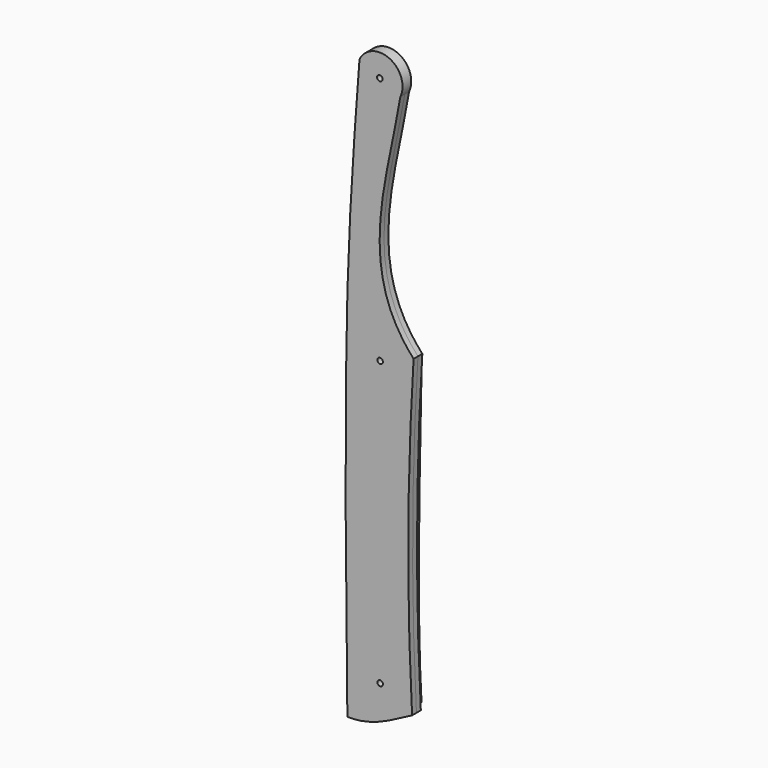
from build123d import *

# Parameters (mm, degrees)
F0_R     = 0.79375
F1_DEPTH = 1.5875
F3_DEPTH = 3.175
F4_R     = 0.79375
F5_DEPTH = 12.7


with BuildPart() as f1:
    # F0 (on Front) → F1 (new body, symmetric)
    with BuildSketch(Plane.XZ):
        with BuildLine():
            add(Edge.make_bspline(
                [(-34.3502052128, -116.479113698), (-34.7983030784, -77.7177502952), (-35.5826450176, -9.87060067), (-32.2482955411, 34.1522766481), (-30.8188740164, 53.0246980488)],
                knots=[0, 0, 0, 0, 0.5713042275, 1, 1, 1, 1], degree=3))
            add(Edge.make_bspline(
                [(-15.5250038952, -109.9904626608), (-22.6352680475, -113.8694807887), (-28.0549824238, -116.7387440801), (-34.3502052128, -116.479113698)],
                knots=[0, 0, 0, 0, 19.9120766605, 19.9120766605, 19.9120766605, 19.9120766605], degree=3))
            add(Edge.make_bspline(
                [(-15.5250038952, -109.9904626608), (-17.3721220344, -75.9345591068), (-16.7300663888, -45.1156832278), (-15.0884054601, -18.5649804771)],
                knots=[0, 0, 0, 0, 91.4265246562, 91.4265246562, 91.4265246562, 91.4265246562], degree=3))
            add(Edge.make_bspline(
                [(-18.9407654107, 47.2461543977), (-22.7931253612, 24.1320021451), (-32.1029946208, 0), (-15.0884054601, -18.5649804771)],
                knots=[0, 0, 0, 0, 65.9237904758, 65.9237904758, 65.9237904758, 65.9237904758], degree=3))
            ThreePointArc((-18.9407654107, 47.2461543977), (-22.0177139024, 56.0186393162), (-30.8188740164, 53.0246980488))
        make_face()
        with Locations((-24.9071146526, 50.0793200016)):
            Circle(F0_R, mode=Mode.SUBTRACT)
    extrude(amount=F1_DEPTH, both=True)


with BuildPart() as f3:
    # F2 (on Front) → F3 (new body)
    with BuildSketch(Plane.XZ):
        with BuildLine():
            add(Edge.make_bspline(
                [(-16.5921431035, -108.8966056705), (-20.8282601088, -110.7499077916), (-30.3135253489, -117.0494705439), (-32.7472798526, -110.8714863658)],
                knots=[0, 0, 0, 0, 16.2753985249, 16.2753985249, 16.2753985249, 16.2753985249], degree=3))
            add(Edge.make_bspline(
                [(-16.5921431035, -24.2616645992), (-16.5921431035, -32.3270261288), (-18.2770490646, -81.5637037158), (-16.5921431035, -108.8966056705)],
                knots=[0, 0, 0, 0, 84.6349410713, 84.6349410713, 84.6349410713, 84.6349410713], degree=3))
            add(Edge.make_bspline(
                [(-32.7472798526, -24.2616645992), (-31.158734113, -11.5533126518), (-17.9159287363, -15.2599150315), (-16.5921431035, -24.2616645992)],
                knots=[0, 0, 0, 0, 16.1551367491, 16.1551367491, 16.1551367491, 16.1551367491], degree=3))
            add(Edge.make_bspline(
                [(-32.7472798526, -110.8714863658), (-34.335821867, -82.277700305), (-34.6743278205, -29.247187078), (-32.7472798526, -24.2616645992)],
                knots=[0, 0, 0, 0, 86.6098217666, 86.6098217666, 86.6098217666, 86.6098217666], degree=3))
        make_face()
    extrude(amount=-F3_DEPTH)


with BuildPart() as f5_tool:
    # F4 (on face) → F5 (new body, symmetric)
    with BuildSketch(Plane(origin=(0, 1.5875, 0), x_dir=(-1, 0, 0), z_dir=(0, 1, 0))):
        with Locations((24.8052769176, -22.2538337111)):
            Circle(F4_R)
        with Locations((24.8107649386, -104.7833412886)):
            Circle(F4_R)
    extrude(amount=F5_DEPTH, both=True)


with BuildPart() as f1_1:
    add(f1.part)

    # F5: cut by f5_tool
    add(f5_tool.part, mode=Mode.SUBTRACT)


with BuildPart() as f3_1:
    add(f3.part)

    # F5: cut by f5_tool
    add(f5_tool.part, mode=Mode.SUBTRACT)


solid = Compound([f1_1.part, f3_1.part])
